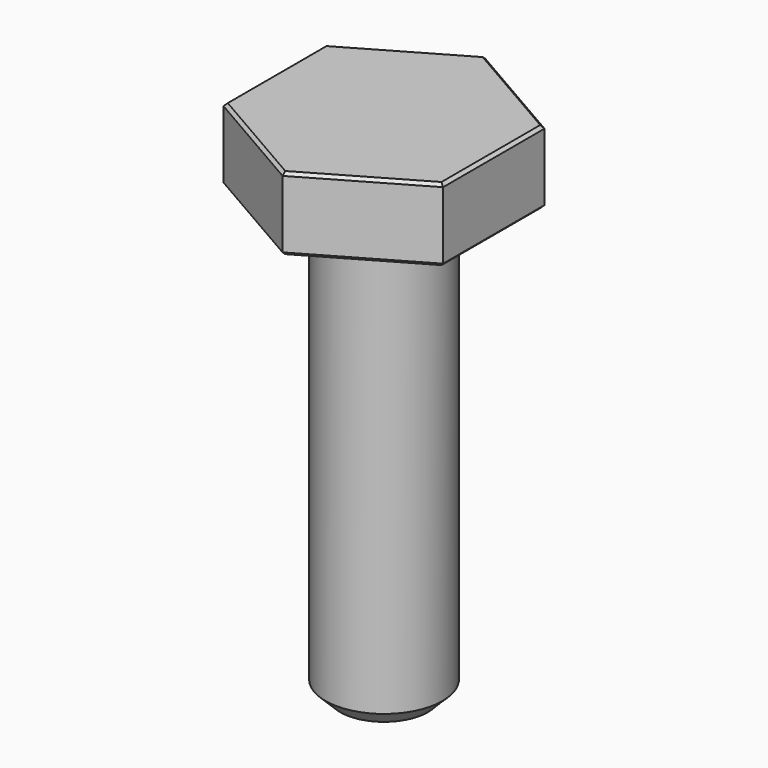
from build123d import *

# Parameters (mm, degrees)
F0_R     = 101.6
F1_DEPTH = 635
F2_R     = 101.6
F3_DEPTH = 127
F4_DEPTH = 127
F5_SIZE  = 25.4
F6_SIZE  = 5.08


with BuildPart() as f1:
    # F0 (on Top) → F1 (new body)
    with BuildSketch(Plane.XY):
        Circle(F0_R)
    extrude(amount=F1_DEPTH)

    # F2 (on face) → F3 (join)
    with BuildSketch(Plane.XY.offset(635)):
        Polygon((-190.5, 109.9852262806), (-190.5, -109.9852262806), (0, -219.9704525612), (190.5, -109.9852262806), (190.5, 109.9852262806), (0, 219.9704525612), align=None)
        Circle(F2_R, mode=Mode.SUBTRACT)
        Circle(F2_R)
    extrude(amount=F3_DEPTH)

    # F4 (add): a face of the model
    f4_faces = [f1.faces().sort_by_distance(p)[0] for p in [
        (0, 0, 0),
    ]]
    extrude(f4_faces, amount=F4_DEPTH)

    # F5
    f5_edges = [f1.edges().sort_by_distance(p)[0] for p in [
        (-101.6, 0, -127),
    ]]
    chamfer(f5_edges, length=F5_SIZE)

    # F6
    f6_edges = [f1.edges().sort_by_distance(p)[0] for p in [
        (-190.5, 0, 762),
        (-95.25, -164.977839, 762),
        (95.25, -164.977839, 762),
        (190.5, 0, 762),
        (95.25, 164.977839, 762),
        (-95.25, 164.977839, 762),
        (-190.5, 0, 635),
        (-95.25, 164.977839, 635),
        (-95.25, -164.977839, 635),
        (95.25, 164.977839, 635),
        (95.25, -164.977839, 635),
        (190.5, 0, 635),
        (-101.6, 0, 635),
    ]]
    chamfer(f6_edges, length=F6_SIZE)


solid = f1.part
